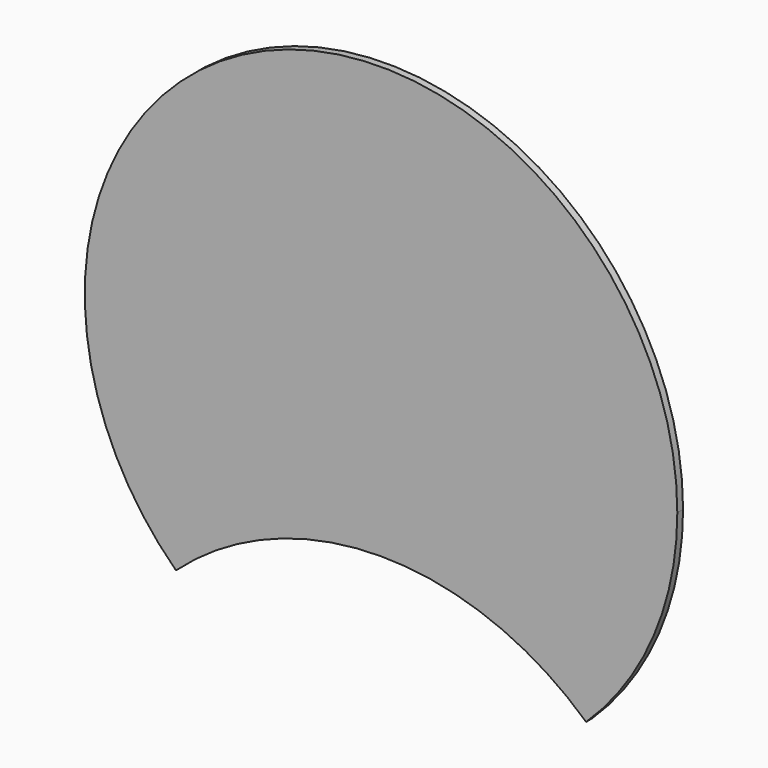
from build123d import *

# Parameters (mm, degrees)
F1_DEPTH = 6


with BuildPart() as f1:
    # F0 (on Front) → F1 (new body)
    with BuildSketch(Plane.XZ):
        with BuildLine():
            ThreePointArc((171.319207, -178.622449), (227.659564, -97.094661), (247.5, 0))
            ThreePointArc((247.5, 0), (-97.094661, 227.659564), (-171.319207, -178.622449))
            ThreePointArc((-171.319207, -178.622449), (0, -112.5), (171.319207, -178.622449))
        make_face()
    extrude(amount=F1_DEPTH)


solid = f1.part
